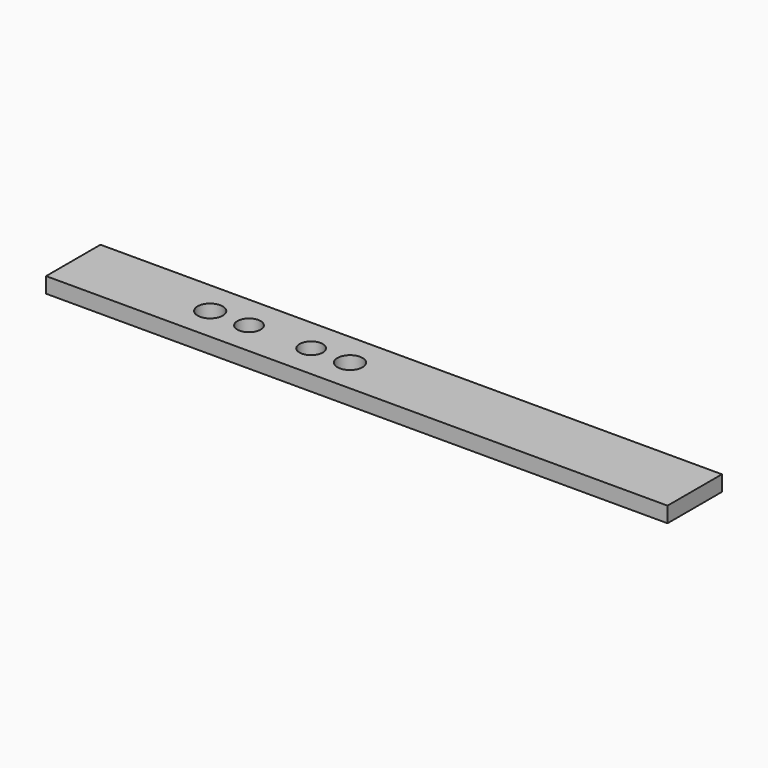
from build123d import *

# Parameters (mm, degrees)
F1_W     = 254
F1_H     = 27.77998
F1_R     = 5.1562
F1_R_2   = 4.7625
F2_DEPTH = 6.35


with BuildPart() as f2:
    # F1 (on face) → F2 (new body)
    with BuildSketch(Plane.XY):
        with Locations((42.4688, 0)):
            Rectangle(F1_W, F1_H)
        with Locations((-28.575, 0)):
            Circle(F1_R, mode=Mode.SUBTRACT)
        with Locations((-12.7, 0)):
            Circle(F1_R_2, mode=Mode.SUBTRACT)
        with Locations((12.7, 0)):
            Circle(F1_R_2, mode=Mode.SUBTRACT)
        with Locations((28.575, 0)):
            Circle(F1_R, mode=Mode.SUBTRACT)
    extrude(amount=-F2_DEPTH)


solid = f2.part
